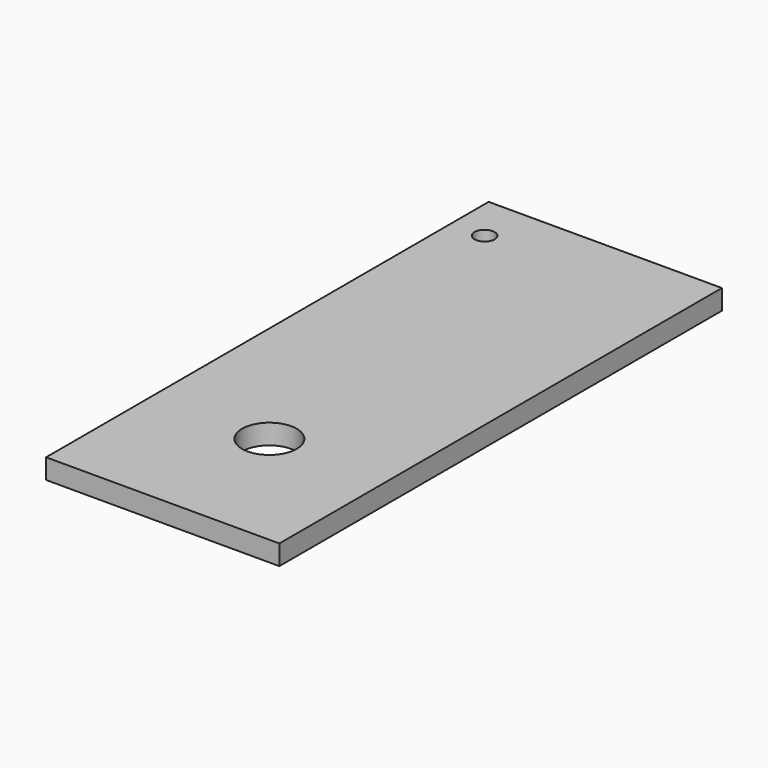
from build123d import *

# Parameters (mm, degrees)
F0_W     = 35
F0_H     = 83
F0_R     = 4.1
F0_R_2   = 1.5
F1_DEPTH = 3
F2_W     = 2
F2_H     = 10
F3_DEPTH = 10


with BuildPart() as f1:
    # F0 (on Top) → F1 (new body)
    with BuildSketch(Plane.XY):
        Rectangle(F0_W, F0_H)
        with Locations((0, -21.5)):
            Circle(F0_R, mode=Mode.SUBTRACT)
        with Locations((-12.5, 34.5)):
            Circle(F0_R_2, mode=Mode.SUBTRACT)
    extrude(amount=F1_DEPTH)

    # F2 (on face) → F3 (join)
    with BuildSketch(Plane(origin=(0, 0, 0), x_dir=(1, 0, 0), z_dir=(0, 0, -1))):
        with Locations((-16.5, -36.5)):
            Rectangle(F2_W, F2_H)
        Polygon((-15.5, -31.5), (-4.5, -31.5), (-4.5, -29.5), (-17.5, -29.5), (-17.5, -31.5), align=None)
    extrude(amount=F3_DEPTH)


solid = f1.part
